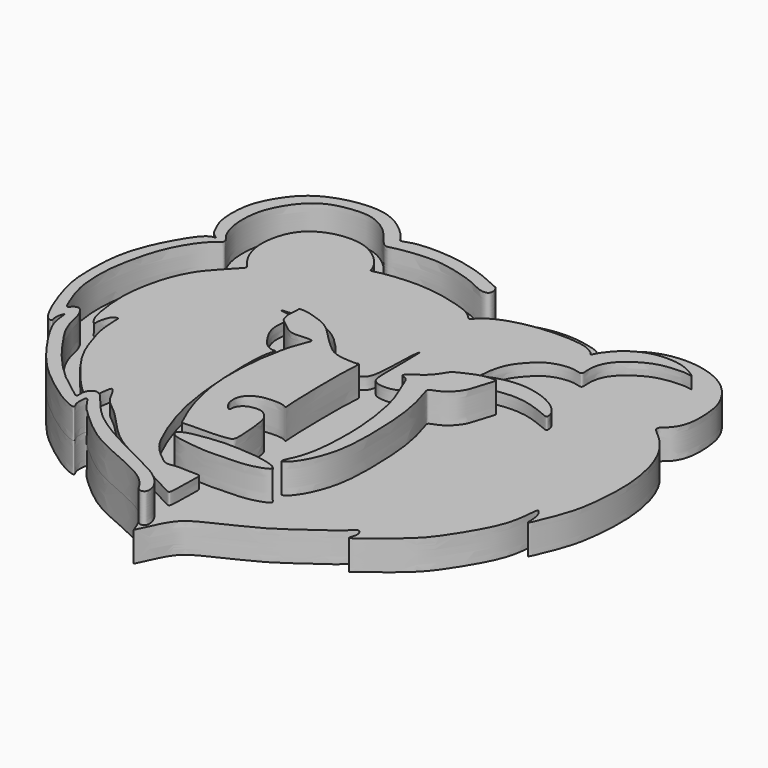
from build123d import *

# Parameters (mm, degrees)
F1_DEPTH = 5
F2_DEPTH = 10
F4_DEPTH = 2
F6_DEPTH = 5


with BuildPart() as f1:
    # F0 (on Top) → F1 (new body)
    with BuildSketch(Plane.XY):
        with BuildLine():
            add(Edge.make_bspline(
                [(0, 27.1305516362), (0.1127647867, 27.0064063179), (0.3634678662, 26.7304015958), (0.6180007388, 25.949497469), (0.3271723886, 25.133934457), (-1.0451385472, 25.0978546923), (-2.8993706517, 26.1858883973), (-5.7523285272, 27.2019571981), (-9.8353120734, 28.2003923208), (-13.1962806975, 28.1318987727), (-15.7281320543, 27.812852041), (-17.387818307, 27.5052194776), (-18.733866114, 27.0280702788), (-20.0161432608, 28.7560317275), (-21.5441688138, 30.6635305533), (-23.8071038153, 32.1630619244), (-26.1488733651, 32.912021743), (-29.9485307012, 32.5313289009), (-32.5111670191, 31.6643281298), (-34.652208189, 29.9452209651), (-36.1840678437, 27.756834436), (-37.5155182399, 25.1533891418), (-38.004538404, 21.6642423277), (-37.6295290697, 18.5246763239), (-36.7792887519, 16.5022454216), (-35.9669785351, 15.6910981179), (-35.7519839304, 15.0257876395), (-36.2110672989, 14.5576715166), (-37.3210779151, 13.79192458), (-39.1826639043, 11.4098308919), (-40.8037756793, 8.0894225494), (-41.7531765276, 4.9716439346), (-42.6680250132, 0.687499297), (-42.845917182, -2.592306999), (-42.6380248117, -6.6460702687), (-41.3421972215, -10.2796572985), (-40.516309197, -12.1513457579), (-40.2041117078, -12.2470016841), (-39.7143049058, -11.5500022679), (-38.8271281985, -11.3269797469), (-38.1282124677, -12.2947031564), (-37.6094829442, -13.3754485001), (-37.3337078713, -15.0525481572), (-36.4224672983, -17.6721704601), (-34.6464580608, -20.1812593172), (-32.3427322937, -23.5447694872), (-29.1875444486, -26.9190458893), (-27.1186001122, -28.6573391956), (-24.6500172627, -30.4719266435), (-23.8029605903, -31.1818008743), (-23.4335126779, -31.0336240924), (-23.730160754, -29.9436464914), (-23.0195186741, -28.677961358), (-21.9679671342, -28.5022969864), (-20.897146222, -29.4629512305), (-19.584436392, -31.252510001), (-17.464419197, -33.634236949), (-13.5597943778, -36.2904689773), (-9.052780953, -38.5727166834), (-5.2358536853, -40.4792299826), (-2.5448488126, -41.8157659449), (-0.7119243789, -43.3042080291), (0.2124824619, -44.6507369813), (0.5457886582, -45.6039150536), (0.5614502259, -46.7985764821), (-0.4723934266, -47.030215003), (-0.805547203, -46.624224232), (-0.969121349, -46.4248880744)],
                knots=[0, 0, 0, 0, 0.0078033225, 0.0173486513, 0.0263409144, 0.0377904984, 0.0534042959, 0.0722323114, 0.094292161, 0.1140980111, 0.1311145828, 0.1450409923, 0.1567136407, 0.1714394593, 0.1886076736, 0.2059661886, 0.222743509, 0.2434605006, 0.2612094524, 0.2786150476, 0.2960590927, 0.3143045628, 0.33439865, 0.3535972358, 0.3692509661, 0.3805390316, 0.3886819614, 0.3966041264, 0.4087915859, 0.4274235155, 0.4480937856, 0.4676675333, 0.4898811321, 0.5094681908, 0.5309777193, 0.5526565433, 0.5670530691, 0.5716103787, 0.5810505338, 0.5905318937, 0.6015389086, 0.6133123477, 0.6271618939, 0.6448591264, 0.663669916, 0.6855621895, 0.70847553, 0.7265680221, 0.745335875, 0.7559071946, 0.7607925214, 0.7715041568, 0.7840576813, 0.7940816596, 0.8063493332, 0.8222932543, 0.8413792815, 0.8647051262, 0.8891114761, 0.9112809025, 0.9298300977, 0.9461743535, 0.9595987563, 0.9704737809, 0.9812841306, 0.990810753, 1, 1, 1, 1], degree=3))
            add(Edge.make_bspline(
                [(0, 27.1305516362), (-1.5914002501, 27.8716957918), (-4.8636921925, 29.3956619017), (-10.4927928222, 30.530027068), (-16.044232762, 30.4712145211), (-18.0331922532, 29.4141879702), (-18.2662645861, 30.2617914239), (-20.2101291036, 32.3851251803), (-23.4147867155, 34.4799669715), (-27.3236856981, 34.9756797883), (-32.2771712761, 34.0417693196), (-36.3964777361, 31.7480490448), (-39.094227796, 27.4179657138), (-40.1067393278, 24.4075797573), (-40.1923668972, 19.5433709649), (-38.9341613408, 17.2287686714), (-38.3575764732, 15.8151419948), (-36.9858884733, 15.1649084598), (-38.636811336, 15.2481763186), (-41.0697220306, 11.7121636087), (-44.3498878946, 5.0622308594), (-44.6338472346, -1.8764393629), (-44.4532402439, -6.8511770617), (-42.0410070769, -13.6383531466), (-40.3477276239, -16.5340923074), (-39.3200450613, -16.4962957406), (-39.8598082859, -15.5891318765), (-39.2041771643, -13.2938639999), (-39.1920508924, -15.9279236511), (-38.1891427789, -18.5124699143), (-35.5490419197, -22.5616516382), (-32.0211847773, -27.2051566807), (-27.478432683, -30.8163329811), (-24.2345837958, -33.0786045205), (-21.5489410813, -34.1645321426), (-22.2853294375, -33.0307300211), (-22.3597038391, -32.1070550099), (-22.2161683209, -30.2512608632), (-20.8852350534, -32.7041197959), (-18.7375756725, -34.7665228811), (-14.6661668931, -38.353964958), (-9.9991939588, -40.5837928904), (-5.6428310777, -42.3905523607), (-2.6056249457, -44.1372131224), (-1.3969278119, -45.6628636402), (-0.969121349, -46.4248880744)],
                knots=[0, 0, 0, 0, 0.0293489438, 0.0603483078, 0.0906151211, 0.1073075293, 0.1167807912, 0.1380164201, 0.1631681051, 0.1881819957, 0.2165428541, 0.2442000864, 0.2722477448, 0.295408783, 0.3230288195, 0.3436034587, 0.3595405164, 0.3716726747, 0.3831036846, 0.408718234, 0.4441277314, 0.4773099612, 0.5060979687, 0.5406637471, 0.5629754021, 0.5719625224, 0.5839919001, 0.5994665161, 0.6148312977, 0.6370535859, 0.6648805617, 0.6960235613, 0.726719765, 0.7533077379, 0.7709760998, 0.7816305087, 0.7954280948, 0.8086284359, 0.8255788613, 0.8488108811, 0.8782656958, 0.9076445732, 0.9353435933, 0.9590142468, 0.9799929467, 0.9799929467, 0.9799929467, 0.9799929467], degree=3))
        make_face()
        with BuildLine():
            add(Edge.make_bspline(
                [(0, -48.6872829497), (0.3127988431, -48.0339032991), (1.004061336, -46.5899822101), (2.4837118824, -43.3146437451), (5.1919614793, -41.3255251881), (12.7454988452, -38.0649651368), (16.6452794482, -35.1905072788), (21.820439801, -31.67320175), (22.8651948428, -30.1746894173), (23.7114950052, -30.7695985663), (23.7186281746, -31.9569643303), (23.0294048433, -33.4083155899), (25.9510125102, -30.939475675), (30.5980928431, -27.4930659046), (33.391426267, -23.5374566638), (36.4472300702, -18.4458853948), (37.6051542936, -14.6165442105), (37.6862735773, -11.1092095588), (38.172753627, -11.454141611), (38.755683374, -12.2813228176), (38.9785642167, -13.7949090793), (38.883949721, -15.5696869213), (40.7329727744, -11.0851282728), (41.9818217322, -7.4599061212), (42.6395898577, -1.3905158752), (42.4866809574, 3.9992150996), (41.0898881353, 9.7883863296), (38.4915125975, 13.8911621742), (35.8065415219, 15.9817389804), (35.5596330147, 16.3884301176), (35.5189315927, 17.0757550747), (36.712129984, 17.7569507869), (38.2020555426, 20.1824614824), (38.0556801453, 24.7838357876), (37.3417364383, 27.8588159164), (34.6772005289, 31.6457685089), (30.2089712559, 33.7270347957), (25.5820892329, 34.1569194241), (21.6472774836, 33.2100488262), (18.9031597972, 31.3128678583), (16.9742113997, 28.7241712591), (17.0252032312, 27.4559159878), (15.9077899567, 28.7460860858), (13.5929351955, 29.3970142369), (10.2898132722, 29.9634739175), (5.7748410635, 29.5143803736), (2.4482160424, 27.8917229104), (0.9417518986, 26.8459118035), (0.2779459569, 27.0463169561), (0, 27.1305516362)],
                knots=[0, 0, 0, 0, 0.0190626947, 0.0420577726, 0.0651009325, 0.1003608014, 0.1295905982, 0.1604949632, 0.1755601296, 0.1857960647, 0.1997233581, 0.2110914299, 0.2311693201, 0.2625299656, 0.290334505, 0.3203726685, 0.3468536733, 0.3677315885, 0.3738048633, 0.3862112794, 0.4026852501, 0.4138228554, 0.4369801912, 0.4636362935, 0.4939157096, 0.5233202136, 0.5535602056, 0.5817149104, 0.6037215658, 0.6117599858, 0.6208416499, 0.6345874235, 0.6553023538, 0.6818587717, 0.7042598952, 0.7303886462, 0.7579637716, 0.7848174044, 0.8095467081, 0.832663813, 0.8549525503, 0.8653626924, 0.8786240549, 0.89828753, 0.9212758434, 0.948035638, 0.9722200287, 0.9883509528, 1, 1, 1, 1], degree=3))
            add(Edge.make_bspline(
                [(0, 27.1305516362), (0.1127647867, 27.0064063179), (0.3634678662, 26.7304015958), (0.6180007388, 25.949497469), (0.3271723886, 25.133934457), (-1.0451385472, 25.0978546923), (-2.8993706517, 26.1858883973), (-5.7523285272, 27.2019571981), (-9.8353120734, 28.2003923208), (-13.1962806975, 28.1318987727), (-15.7281320543, 27.812852041), (-17.387818307, 27.5052194776), (-18.733866114, 27.0280702788), (-20.0161432608, 28.7560317275), (-21.5441688138, 30.6635305533), (-23.8071038153, 32.1630619244), (-26.1488733651, 32.912021743), (-29.9485307012, 32.5313289009), (-32.5111670191, 31.6643281298), (-34.652208189, 29.9452209651), (-36.1840678437, 27.756834436), (-37.5155182399, 25.1533891418), (-38.004538404, 21.6642423277), (-37.6295290697, 18.5246763239), (-36.7792887519, 16.5022454216), (-35.9669785351, 15.6910981179), (-35.7519839304, 15.0257876395), (-36.2110672989, 14.5576715166), (-37.3210779151, 13.79192458), (-39.1826639043, 11.4098308919), (-40.8037756793, 8.0894225494), (-41.7531765276, 4.9716439346), (-42.6680250132, 0.687499297), (-42.845917182, -2.592306999), (-42.6380248117, -6.6460702687), (-41.3421972215, -10.2796572985), (-40.516309197, -12.1513457579), (-40.2041117078, -12.2470016841), (-39.7143049058, -11.5500022679), (-38.8271281985, -11.3269797469), (-38.1282124677, -12.2947031564), (-37.6094829442, -13.3754485001), (-37.3337078713, -15.0525481572), (-36.4224672983, -17.6721704601), (-34.6464580608, -20.1812593172), (-32.3427322937, -23.5447694872), (-29.1875444486, -26.9190458893), (-27.1186001122, -28.6573391956), (-24.6500172627, -30.4719266435), (-23.8029605903, -31.1818008743), (-23.4335126779, -31.0336240924), (-23.730160754, -29.9436464914), (-23.0195186741, -28.677961358), (-21.9679671342, -28.5022969864), (-20.897146222, -29.4629512305), (-19.584436392, -31.252510001), (-17.464419197, -33.634236949), (-13.5597943778, -36.2904689773), (-9.052780953, -38.5727166834), (-5.2358536853, -40.4792299826), (-2.5448488126, -41.8157659449), (-0.7119243789, -43.3042080291), (0.2124824619, -44.6507369813), (0.5457886582, -45.6039150536), (0.5614502259, -46.7985764821), (-0.4723934266, -47.030215003), (-0.805547203, -46.624224232), (-0.969121349, -46.4248880744)],
                knots=[0, 0, 0, 0, 0.0078033225, 0.0173486513, 0.0263409144, 0.0377904984, 0.0534042959, 0.0722323114, 0.094292161, 0.1140980111, 0.1311145828, 0.1450409923, 0.1567136407, 0.1714394593, 0.1886076736, 0.2059661886, 0.222743509, 0.2434605006, 0.2612094524, 0.2786150476, 0.2960590927, 0.3143045628, 0.33439865, 0.3535972358, 0.3692509661, 0.3805390316, 0.3886819614, 0.3966041264, 0.4087915859, 0.4274235155, 0.4480937856, 0.4676675333, 0.4898811321, 0.5094681908, 0.5309777193, 0.5526565433, 0.5670530691, 0.5716103787, 0.5810505338, 0.5905318937, 0.6015389086, 0.6133123477, 0.6271618939, 0.6448591264, 0.663669916, 0.6855621895, 0.70847553, 0.7265680221, 0.745335875, 0.7559071946, 0.7607925214, 0.7715041568, 0.7840576813, 0.7940816596, 0.8063493332, 0.8222932543, 0.8413792815, 0.8647051262, 0.8891114761, 0.9112809025, 0.9298300977, 0.9461743535, 0.9595987563, 0.9704737809, 0.9812841306, 0.990810753, 1, 1, 1, 1], degree=3))
            add(Edge.make_bspline(
                [(-0.969121349, -46.4248880744), (-0.5611291119, -47.151618689), (-0.2805645559, -47.9194508193), (0, -48.6872829497)],
                knots=[0.9799929467, 0.9799929467, 0.9799929467, 0.9799929467, 1, 1, 1, 1], degree=3))
        make_face()
    extrude(amount=F1_DEPTH)

    # F0 (on Top) → F2 (join)
    with BuildSketch(Plane.XY):
        with BuildLine():
            add(Edge.make_bspline(
                [(0, 27.1305516362), (0.1127647867, 27.0064063179), (0.3634678662, 26.7304015958), (0.6180007388, 25.949497469), (0.3271723886, 25.133934457), (-1.0451385472, 25.0978546923), (-2.8993706517, 26.1858883973), (-5.7523285272, 27.2019571981), (-9.8353120734, 28.2003923208), (-13.1962806975, 28.1318987727), (-15.7281320543, 27.812852041), (-17.387818307, 27.5052194776), (-18.733866114, 27.0280702788), (-20.0161432608, 28.7560317275), (-21.5441688138, 30.6635305533), (-23.8071038153, 32.1630619244), (-26.1488733651, 32.912021743), (-29.9485307012, 32.5313289009), (-32.5111670191, 31.6643281298), (-34.652208189, 29.9452209651), (-36.1840678437, 27.756834436), (-37.5155182399, 25.1533891418), (-38.004538404, 21.6642423277), (-37.6295290697, 18.5246763239), (-36.7792887519, 16.5022454216), (-35.9669785351, 15.6910981179), (-35.7519839304, 15.0257876395), (-36.2110672989, 14.5576715166), (-37.3210779151, 13.79192458), (-39.1826639043, 11.4098308919), (-40.8037756793, 8.0894225494), (-41.7531765276, 4.9716439346), (-42.6680250132, 0.687499297), (-42.845917182, -2.592306999), (-42.6380248117, -6.6460702687), (-41.3421972215, -10.2796572985), (-40.516309197, -12.1513457579), (-40.2041117078, -12.2470016841), (-39.7143049058, -11.5500022679), (-38.8271281985, -11.3269797469), (-38.1282124677, -12.2947031564), (-37.6094829442, -13.3754485001), (-37.3337078713, -15.0525481572), (-36.4224672983, -17.6721704601), (-34.6464580608, -20.1812593172), (-32.3427322937, -23.5447694872), (-29.1875444486, -26.9190458893), (-27.1186001122, -28.6573391956), (-24.6500172627, -30.4719266435), (-23.8029605903, -31.1818008743), (-23.4335126779, -31.0336240924), (-23.730160754, -29.9436464914), (-23.0195186741, -28.677961358), (-21.9679671342, -28.5022969864), (-20.897146222, -29.4629512305), (-19.584436392, -31.252510001), (-17.464419197, -33.634236949), (-13.5597943778, -36.2904689773), (-9.052780953, -38.5727166834), (-5.2358536853, -40.4792299826), (-2.5448488126, -41.8157659449), (-0.7119243789, -43.3042080291), (0.2124824619, -44.6507369813), (0.5457886582, -45.6039150536), (0.5614502259, -46.7985764821), (-0.4723934266, -47.030215003), (-0.805547203, -46.624224232), (-0.969121349, -46.4248880744)],
                knots=[0, 0, 0, 0, 0.0078033225, 0.0173486513, 0.0263409144, 0.0377904984, 0.0534042959, 0.0722323114, 0.094292161, 0.1140980111, 0.1311145828, 0.1450409923, 0.1567136407, 0.1714394593, 0.1886076736, 0.2059661886, 0.222743509, 0.2434605006, 0.2612094524, 0.2786150476, 0.2960590927, 0.3143045628, 0.33439865, 0.3535972358, 0.3692509661, 0.3805390316, 0.3886819614, 0.3966041264, 0.4087915859, 0.4274235155, 0.4480937856, 0.4676675333, 0.4898811321, 0.5094681908, 0.5309777193, 0.5526565433, 0.5670530691, 0.5716103787, 0.5810505338, 0.5905318937, 0.6015389086, 0.6133123477, 0.6271618939, 0.6448591264, 0.663669916, 0.6855621895, 0.70847553, 0.7265680221, 0.745335875, 0.7559071946, 0.7607925214, 0.7715041568, 0.7840576813, 0.7940816596, 0.8063493332, 0.8222932543, 0.8413792815, 0.8647051262, 0.8891114761, 0.9112809025, 0.9298300977, 0.9461743535, 0.9595987563, 0.9704737809, 0.9812841306, 0.990810753, 1, 1, 1, 1], degree=3))
            add(Edge.make_bspline(
                [(0, 27.1305516362), (-1.5914002501, 27.8716957918), (-4.8636921925, 29.3956619017), (-10.4927928222, 30.530027068), (-16.044232762, 30.4712145211), (-18.0331922532, 29.4141879702), (-18.2662645861, 30.2617914239), (-20.2101291036, 32.3851251803), (-23.4147867155, 34.4799669715), (-27.3236856981, 34.9756797883), (-32.2771712761, 34.0417693196), (-36.3964777361, 31.7480490448), (-39.094227796, 27.4179657138), (-40.1067393278, 24.4075797573), (-40.1923668972, 19.5433709649), (-38.9341613408, 17.2287686714), (-38.3575764732, 15.8151419948), (-36.9858884733, 15.1649084598), (-38.636811336, 15.2481763186), (-41.0697220306, 11.7121636087), (-44.3498878946, 5.0622308594), (-44.6338472346, -1.8764393629), (-44.4532402439, -6.8511770617), (-42.0410070769, -13.6383531466), (-40.3477276239, -16.5340923074), (-39.3200450613, -16.4962957406), (-39.8598082859, -15.5891318765), (-39.2041771643, -13.2938639999), (-39.1920508924, -15.9279236511), (-38.1891427789, -18.5124699143), (-35.5490419197, -22.5616516382), (-32.0211847773, -27.2051566807), (-27.478432683, -30.8163329811), (-24.2345837958, -33.0786045205), (-21.5489410813, -34.1645321426), (-22.2853294375, -33.0307300211), (-22.3597038391, -32.1070550099), (-22.2161683209, -30.2512608632), (-20.8852350534, -32.7041197959), (-18.7375756725, -34.7665228811), (-14.6661668931, -38.353964958), (-9.9991939588, -40.5837928904), (-5.6428310777, -42.3905523607), (-2.6056249457, -44.1372131224), (-1.3969278119, -45.6628636402), (-0.969121349, -46.4248880744)],
                knots=[0, 0, 0, 0, 0.0293489438, 0.0603483078, 0.0906151211, 0.1073075293, 0.1167807912, 0.1380164201, 0.1631681051, 0.1881819957, 0.2165428541, 0.2442000864, 0.2722477448, 0.295408783, 0.3230288195, 0.3436034587, 0.3595405164, 0.3716726747, 0.3831036846, 0.408718234, 0.4441277314, 0.4773099612, 0.5060979687, 0.5406637471, 0.5629754021, 0.5719625224, 0.5839919001, 0.5994665161, 0.6148312977, 0.6370535859, 0.6648805617, 0.6960235613, 0.726719765, 0.7533077379, 0.7709760998, 0.7816305087, 0.7954280948, 0.8086284359, 0.8255788613, 0.8488108811, 0.8782656958, 0.9076445732, 0.9353435933, 0.9590142468, 0.9799929467, 0.9799929467, 0.9799929467, 0.9799929467], degree=3))
        make_face()
    extrude(amount=F2_DEPTH)

    # F3 (on face) → F4 (join)
    with BuildSketch(Plane.XY.offset(5)):
        with BuildLine():
            add(Edge.make_bspline(
                [(-32.7315709388, 15.3556100242), (-32.6280660196, 15.4668295855), (-32.5245611004, 15.5780491469), (-32.4210561812, 15.6892687082)],
                knots=[0.5793184772, 0.5793184772, 0.5793184772, 0.5793184772, 1.035111777, 1.035111777, 1.035111777, 1.035111777], degree=3))
            add(Edge.make_bspline(
                [(-32.4210561812, 15.6892687082), (-32.5218891358, 15.8016639344), (-32.6227332938, 15.9140724749), (-32.7230834223, 16.0275179392)],
                knots=[0, 0, 0, 0, 0.0012811889, 0.0012811889, 0.0012811889, 0.0012811889], degree=3))
            ThreePointArc((-32.7230834223, 16.0275179392), (-32.5976305589, 15.6899256586), (-32.7315709388, 15.3556100242))
        make_face()
        with BuildLine():
            add(Edge.make_bspline(
                [(-32.4210561812, 15.6892687082), (-32.5218891358, 15.8016639344), (-32.6227332938, 15.9140724749), (-32.7230834223, 16.0275179392)],
                knots=[0, 0, 0, 0, 0.0012811889, 0.0012811889, 0.0012811889, 0.0012811889], degree=3))
            add(Edge.make_bspline(
                [(-32.7315709388, 15.3556100242), (-32.6280660196, 15.4668295855), (-32.5245611004, 15.5780491469), (-32.4210561812, 15.6892687082)],
                knots=[0.5793184772, 0.5793184772, 0.5793184772, 0.5793184772, 1.035111777, 1.035111777, 1.035111777, 1.035111777], degree=3))
            add(Edge.make_bspline(
                [(-33.1262387335, 14.9315260351), (-32.9946828019, 15.0728873648), (-32.8631268703, 15.2142486945), (-32.7315709388, 15.3556100242)],
                knots=[0, 0, 0, 0, 0.5793184772, 0.5793184772, 0.5793184772, 0.5793184772], degree=3))
            add(Edge.make_bspline(
                [(-32.7230834223, 16.0275179392), (-33.1879455958, 16.5530429769), (-34.2853711154, 17.8763886371), (-35.4773337297, 21.1629639184), (-35.0639644254, 24.9938961808), (-33.5827573775, 28.2580678073), (-30.4138449626, 30.1860213194), (-26.9854063918, 30.7091862011), (-24.0442394452, 30.1863961202), (-21.8066225585, 28.776314674), (-20.1364461996, 27.0783021739), (-19.4089226824, 25.575535706), (-19.4037285131, 24.947266937), (-17.9390414807, 25.4624876837), (-14.6190475242, 25.8544483249), (-11.0045663477, 25.9683660576), (-7.3364551941, 25.3785023711), (-4.6628677599, 24.6956851328), (-2.4257251569, 23.9488744683), (-1.1662743957, 22.957618792), (-0.638932668, 22.2678083355), (-0.2136335196, 22.9856005571), (1.0441781298, 24.079362658), (2.9272649209, 24.99899508), (5.4018594263, 25.7381876436), (8.0503401257, 26.2107377893), (11.5650659823, 26.3949998124), (14.1470580831, 26.2562548584), (16.2835548946, 25.892142666), (17.4602537612, 25.1738974706), (17.8696634266, 24.7878979834), (18.1190105751, 24.4085609239), (18.4839540221, 25.3538758932), (19.2879985951, 26.4515174963), (20.4990155366, 27.8365151281), (22.1059846177, 28.8921432841), (23.6657838418, 29.5793621144), (25.4903527698, 29.9671810454), (27.5708749718, 29.9513891818), (29.3906666029, 29.6545257652), (30.9882516478, 28.9173832283), (32.5478085026, 27.8815893356), (31.2971923342, 28.2152526008), (30.1244566416, 28.26532731), (27.6884291566, 28.1109344777), (25.3452117997, 27.4237430683), (23.0268924039, 25.9385275503), (21.465558539, 24.4392947105), (20.5805364326, 22.6349832855), (20.473782139, 20.8154919182), (20.6102146821, 19.9116351329), (20.3986134871, 19.453719015), (19.0857273264, 19.9610390877), (16.9974849294, 19.8965381615), (14.5629843372, 19.0896608455), (12.6968140764, 17.1646301528), (11.2713915557, 15.3425348184), (10.5673866755, 12.6192589932), (10.5605256265, 11.4072306671), (10.3770539633, 10.3456033119), (11.1402440211, 10.9323249723), (12.5839721372, 11.6438910978), (15.2204264606, 12.1582498059), (17.9137976131, 12.0553257374), (20.6243730718, 11.3243027884), (22.8067015616, 10.2104172439), (24.3682146194, 8.6677826986), (24.6076966448, 7.7281634951), (24.6692310312, 6.9973301603), (23.4120621168, 7.5293024524), (21.2446217575, 8.4340834865), (18.294079712, 9.0949677377), (14.7165332858, 8.8136398125), (11.5096396884, 7.6920592759), (9.6734406289, 5.6966017094), (7.8142377588, 3.6917023291), (5.8007426624, 1.5399796912), (4.1560871719, 0.4817579379), (1.9589317066, 0.4127839899), (0.5899533773, 0.9776360329), (0.3221079009, 2.4750047238), (0.3141210701, 5.1355137642), (0.308873858, 9.6647430032), (0.257780028, 11.4093911788), (-0.1456146555, 9.6442078743), (-0.1309430208, 5.1377173427), (-0.4012148326, 2.3766735486), (-0.9529968422, 1.1131001435), (-2.2859249397, 0.4462146632), (-4.5336637515, 0.4685471817), (-6.9394465909, 2.1871775702), (-9.0649753979, 5.1080313865), (-11.4380561275, 7.5251252262), (-13.6742753049, 8.8244165455), (-16.1669364802, 9.1694679964), (-18.6577889495, 9.2589249772), (-21.0120194467, 9.1577040965), (-21.643595723, 8.9212267505), (-19.9747424051, 8.8371673135), (-19.309231671, 8.3819611403), (-18.8196135321, 7.6931295626), (-19.1414508279, 5.7693505421), (-19.1100717411, 4.1564939717), (-18.424344812, 2.4808599248), (-17.4179707141, 1.0294041797), (-16.5736034743, -0.0665639647), (-15.1982929749, -0.5850575899), (-14.6822973269, -0.3662062309), (-15.1639767646, -1.4939445114), (-15.4724558297, -4.0995143518), (-15.4158940524, -7.9853545322), (-15.1491128278, -13.4793395722), (-14.5151624494, -18.6751220285), (-13.3511483638, -23.4390533318), (-11.3158268207, -28.6734029012), (-9.7743348503, -31.3528648597), (-7.6287106525, -33.2877255556), (-6.0760855436, -34.4908334604), (-4.6538907451, -34.012088364), (-3.1242463015, -34.1929135026), (-1.0061520447, -34.1774972155), (-0.2657480781, -34.2036051698), (-0.575254226, -37.2783847208), (-0.4574205715, -40.1523443804), (-0.8652216877, -40.5196685478), (-2.769011395, -39.4173750683), (-6.6603831269, -37.4678491361), (-11.0198304621, -34.946733219), (-15.3559355277, -32.6308314232), (-18.4408879522, -29.3160297085), (-20.9207652698, -26.6386784309), (-23.0621015336, -25.2442066676), (-23.9671523517, -23.1058872103), (-24.9425811848, -21.8638460894), (-25.1241841881, -23.1306820131), (-25.3442227872, -24.4297432506), (-24.9560607383, -26.4692565585), (-24.7568751399, -27.2959590667), (-27.1143691364, -25.4340696575), (-29.4635640009, -23.1086478442), (-34.0979794422, -17.4583762585), (-35.6893478245, -12.4409357385), (-36.463466451, -9.8490515245), (-36.6327948917, -6.7520064757), (-36.5538549524, -5.9950328371), (-37.5776397842, -6.2232058122), (-37.9773105234, -7.518086009), (-38.226122102, -8.6550331362), (-38.0991856917, -9.3742228815), (-39.2929915811, -8.198302845), (-39.9192534016, -4.684268159), (-40.2258726912, -1.0217830451), (-39.9158288157, 2.3322481142), (-39.0192884349, 6.5318123939), (-37.2481797751, 10.4154345023), (-35.322955153, 12.6021505272), (-33.8697248844, 14.1431409641), (-33.1262387335, 14.9315260351)],
                knots=[0.0012811889, 0.0012811889, 0.0012811889, 0.0012811889, 0.0072161714, 0.0156192133, 0.0243007535, 0.032553482, 0.0409156305, 0.0491518293, 0.0567361521, 0.063904628, 0.0708467528, 0.0764761429, 0.0792315323, 0.0840580467, 0.0923370236, 0.1009448112, 0.1094747685, 0.1169013376, 0.1237018592, 0.1293567754, 0.1328314277, 0.1362226888, 0.1419773631, 0.1484714244, 0.1555548209, 0.1629179819, 0.1712445004, 0.1784832248, 0.1849897288, 0.1900986958, 0.1934429784, 0.1956847281, 0.1995157707, 0.2049035373, 0.2109337987, 0.2170822113, 0.2228584713, 0.2289042656, 0.2353080113, 0.241290948, 0.2475588705, 0.2524131921, 0.2560731017, 0.2611765402, 0.2680286702, 0.2750647745, 0.282391818, 0.2889086168, 0.2951540711, 0.3011517495, 0.3053152297, 0.3078145462, 0.3126571646, 0.3191946531, 0.3262574128, 0.3334345103, 0.3402853431, 0.3476028309, 0.352749808, 0.3564372524, 0.3597980784, 0.3655634041, 0.372840228, 0.3801845025, 0.3875854134, 0.3946233691, 0.40106935, 0.4054333597, 0.4083989758, 0.4128207037, 0.4198122039, 0.4275519837, 0.4359841173, 0.4440759133, 0.451280523, 0.4586953586, 0.4662906348, 0.472460518, 0.4789264374, 0.4840104668, 0.4890453345, 0.496487067, 0.5062928386, 0.5107063631, 0.5152193077, 0.5250291898, 0.5325259568, 0.5374136084, 0.5425820992, 0.549048019, 0.5565602694, 0.5650860213, 0.5732689569, 0.5803097858, 0.5872314115, 0.5945093072, 0.601343786, 0.6035307403, 0.608593098, 0.6127879104, 0.6165747402, 0.6226540402, 0.6284033012, 0.6343109407, 0.6402059577, 0.6455185133, 0.6507607715, 0.6531747717, 0.6572354987, 0.6645121705, 0.6733543505, 0.6838207367, 0.6939905176, 0.7039403561, 0.7144087914, 0.7222502794, 0.7297502218, 0.7357231579, 0.7408038529, 0.7464988654, 0.7529494049, 0.755965301, 0.7635492306, 0.7711765587, 0.7735516079, 0.7796129131, 0.7891131613, 0.7992004395, 0.8090385827, 0.8185005553, 0.8269568638, 0.8339555358, 0.840865164, 0.8453749753, 0.8493092332, 0.8547937369, 0.8612785222, 0.8639881453, 0.8705803895, 0.879231808, 0.8912074331, 0.9013531767, 0.9088426708, 0.9165564632, 0.919712411, 0.9234476494, 0.9285996163, 0.9335841371, 0.936298452, 0.9408574478, 0.9494194741, 0.9580355559, 0.9661409739, 0.9753866383, 0.984524449, 0.9920772924, 1, 1, 1, 1], degree=3))
        make_face()
    extrude(amount=F4_DEPTH)

    # F5 (on face) → F6 (join)
    with BuildSketch(Plane.XY.offset(5)):
        with BuildLine():
            add(Edge.make_bspline(
                [(-16.1839835346, 6.2586246058), (-16.0506501449, 6.3686655062), (-14.8529746685, 6.3361792093), (-12.7346777807, 5.6944213603), (-10.3471817317, 4.6915889878), (-8.4902264252, 2.5636564758), (-6.499763226, 0.6767885585), (-4.9422251572, -0.6053299025), (-3.0532327869, -1.0921935182), (-0.6187718262, -1.1599680562), (-0.2218026407, -0.8496577816), (-0.5238489343, -3.6505982739), (-0.4602427056, -10.0251565498), (-0.3167164612, -16.1230957475), (-0.1442017171, -16.7026451242), (-0.9580261889, -16.1094434983), (-3.0812883327, -16.0962257099), (-5.05745775, -16.3539871431), (-6.7809155491, -17.6773218509), (-7.0034889328, -19.2712215943), (-6.7035073042, -20.6978393322), (-5.8429016934, -21.5842106765), (-5.4961244142, -21.7396322231), (-5.5779248839, -20.7171684967), (-4.6839485096, -19.6516291432), (-3.4636999424, -19.2648523031), (-1.7704752425, -19.2275581458), (-0.5774697046, -20.5132353105), (-0.1022088978, -21.7101037465), (0.231581559, -25.4002481632), (0.2893822233, -27.5461954549), (0.0190006744, -27.9891738422), (-0.4541916906, -28.1765848203), (-2.7940687338, -28.4417963996), (-5.5453868269, -28.4498361522), (-7.1232737338, -28.4116678245), (-7.9047827634, -28.4922096488), (-8.1333048299, -28.4769010122), (-8.6868663299, -27.2696469327), (-9.9350441653, -24.3739092641), (-10.9937589884, -20.6073937584), (-11.8411368837, -16.2060196266), (-11.6807388534, -9.2875606644), (-10.6739307925, -3.6397342617), (-9.7438737808, -1.0811671416), (-9.2803753688, -0.0596746181), (-9.2286629753, 0.399556048), (-10.3604654245, 0.4683227849), (-11.5066186598, 0.3625953123), (-13.0200067102, 0.292728144), (-14.3403048079, 1.3161009806), (-15.4202535703, 2.1617386535), (-16.0898277953, 2.717196709), (-16.4145929261, 4.37551337), (-16.2014095194, 5.1693297785), (-16.2041972755, 5.9906266723), (-16.2458107251, 6.2075982295), (-16.1839835346, 6.2586246058)],
                knots=[0, 0, 0, 0, 0.0149423476, 0.0365195125, 0.0589499966, 0.0825249101, 0.1058675522, 0.1253393608, 0.1455753946, 0.167074988, 0.173372641, 0.1932909503, 0.2316389164, 0.2656392979, 0.2724389076, 0.2840903912, 0.3047919576, 0.3249678169, 0.34474719, 0.3619634889, 0.3790064721, 0.3942955312, 0.4004133675, 0.412947665, 0.4292862803, 0.4451008455, 0.4628497371, 0.4804369029, 0.4964493923, 0.5238026784, 0.5442631777, 0.5530472441, 0.5621973226, 0.5835076449, 0.6076016977, 0.6253436288, 0.6370746021, 0.6427240336, 0.6575143657, 0.6828418478, 0.7106419114, 0.7403292367, 0.7775766554, 0.8115513088, 0.8343424431, 0.848578775, 0.8561726698, 0.8698280943, 0.8856047475, 0.902413169, 0.9204398489, 0.9367721006, 0.9497388299, 0.9673664443, 0.980613243, 0.9930711776, 1, 1, 1, 1], degree=3))
        make_face()
        with BuildLine():
            add(Edge.make_bspline(
                [(-5.1529891789, -30.1763731986), (-4.4829085974, -30.020779157), (-2.9266069532, -29.7622073654), (-0.2978416524, -29.4910603431), (1.6963986876, -29.5430942249), (5.2887269314, -29.6845474507), (7.8966376751, -30.3053243906), (9.0549408159, -30.7712838152), (9.4718425979, -31.3857108002), (8.126337279, -32.0331121953), (5.7118253251, -32.6879026527), (1.6943854174, -32.7714394616), (-1.0365968614, -32.8342119466), (-3.7723793393, -32.4582622083), (-5.345966257, -32.2773242182), (-6.6266034058, -31.9041289977), (-7.1773414605, -31.208043574), (-6.5211762741, -30.5490105609), (-5.6942092607, -30.3020455764), (-5.1529891789, -30.1763731986)],
                knots=[0, 0, 0, 0, 0.064887634, 0.1342873525, 0.1959156535, 0.2778072658, 0.3494189518, 0.3962233143, 0.4255478186, 0.4717195647, 0.5418965441, 0.6282724453, 0.7011309956, 0.7717209978, 0.8266447031, 0.875691672, 0.911145943, 0.9475906457, 1, 1, 1, 1], degree=3))
        make_face()
        with BuildLine():
            add(Edge.make_bspline(
                [(6.0834521428, 0.0815114036), (6.0405209971, 0.4090960902), (8.0983238519, 1.6912635439), (9.18601871, 2.7827379942), (9.9546650318, 3.9271348982), (10.4307918087, 4.8099030348), (11.8734530294, 5.502002769), (14.0522136523, 6.5567792922), (16.4426423896, 6.7254300606), (16.7307418044, 6.4837971578), (15.9425667365, 4.690165706), (15.4716165925, 1.9484480245), (13.5913254824, -0.0171030204), (12.4098309465, -0.6142190344), (11.3516596334, -0.9551071264), (11.1609184041, -1.3425081772), (11.8634094688, -3.2006616804), (12.7424261518, -6.6469774723), (13.2282009099, -11.3664270621), (13.3685205416, -17.0655030731), (13.0253792182, -21.6658222276), (11.8196883769, -25.2723072427), (10.7530389153, -27.2470456239), (9.8090977717, -28.4100259769), (8.7705720275, -29.0716556588), (9.0377274799, -28.0900253993), (9.7933161114, -26.7148581411), (10.6028826445, -23.8644019367), (10.945309759, -19.789776045), (10.9507085293, -15.2747335582), (10.5545676759, -11.0916274146), (9.6604682492, -6.4252598813), (8.5441357367, -3.8640650183), (7.5453335305, -1.3259445595), (7.0808733154, -0.2641066398), (6.1098771978, -0.120124105), (6.0834521428, 0.0815114036)],
                knots=[0, 0, 0, 0, 0.0306058398, 0.0576228238, 0.0801630271, 0.0995400832, 0.123856345, 0.1563672072, 0.1860265907, 0.1948660916, 0.2209018103, 0.2554244881, 0.2873570089, 0.3107009456, 0.3306632162, 0.3417678841, 0.3682217572, 0.4063331817, 0.4500770964, 0.4978180957, 0.5409597469, 0.5794002682, 0.6089418394, 0.6339952509, 0.6517528431, 0.6669790333, 0.6923920607, 0.7264132709, 0.7670027897, 0.8092742038, 0.8506598177, 0.8936266514, 0.9276005971, 0.9599545857, 0.9811614391, 1, 1, 1, 1], degree=3))
        make_face()
    extrude(amount=F6_DEPTH)


solid = f1.part
